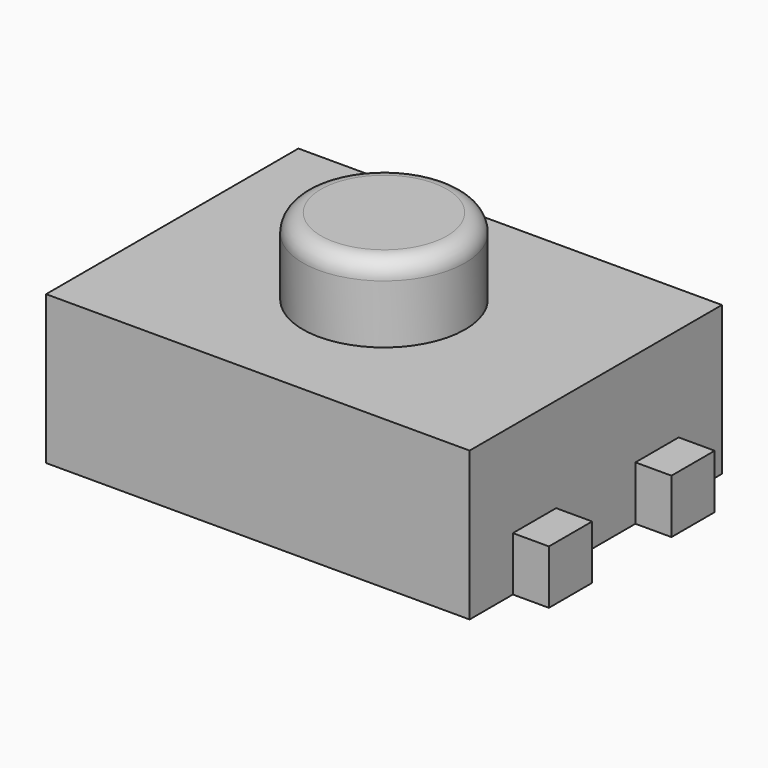
from build123d import *

# Parameters (mm, degrees)
F0_W     = 4.7
F0_H     = 3.5
F1_DEPTH = 1.65
F2_W     = 1
F2_H     = 0.6
F3_DEPTH = 0.6
F4_R     = 0.9
F5_DEPTH = 0.85
F6_R     = 0.2


with BuildPart() as f1:
    # F0 (on Top) → F1 (new body)
    with BuildSketch(Plane.XY):
        Rectangle(F0_W, F0_H)
    extrude(amount=F1_DEPTH)


with BuildPart() as f3:
    # F2 (on face) → F3 (new body)
    with BuildSketch(Plane(origin=(0, 0, 0), x_dir=(1, 0, 0), z_dir=(0, 0, -1))):
        with Locations((-2.25, 0.85)):
            Rectangle(F2_W, F2_H)
        with Locations((2.25, 0.85)):
            Rectangle(F2_W, F2_H)
        with Locations((2.25, -0.85)):
            Rectangle(F2_W, F2_H)
        with Locations((-2.25, -0.85)):
            Rectangle(F2_W, F2_H)
    extrude(amount=-F3_DEPTH)


with BuildPart() as f5:
    # F4 (on face) → F5 (new body)
    with BuildSketch(Plane.XY.offset(1.65)):
        Circle(F4_R)
    extrude(amount=F5_DEPTH)

    # F6
    f6_edges = [f5.edges().sort_by_distance(p)[0] for p in [
        (-0.9, 0, 2.5),
    ]]
    fillet(f6_edges, radius=F6_R)


solid = Compound([f1.part, f3.part, f5.part])
